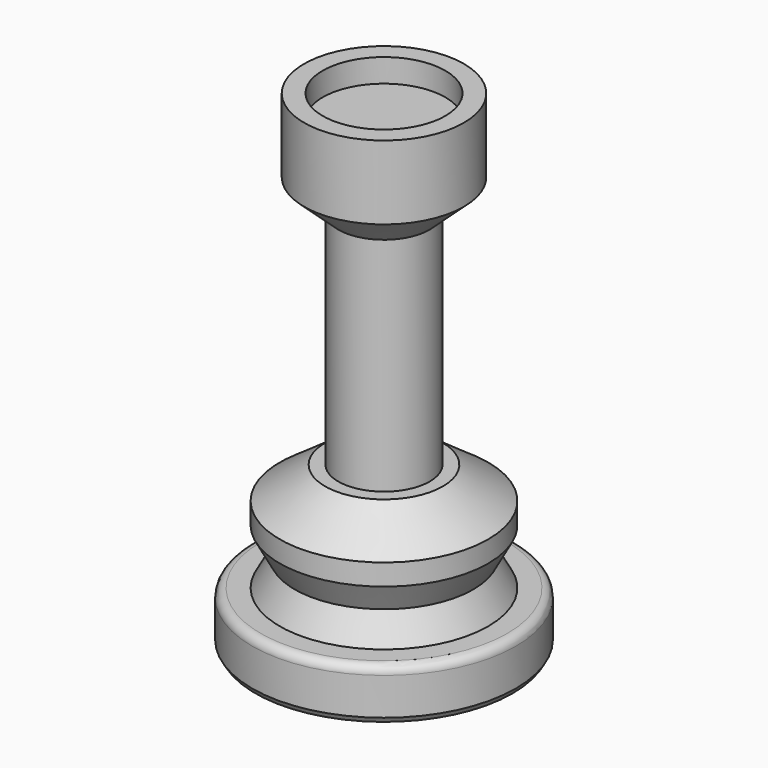
from build123d import *


with BuildPart() as f1:
    # F0 (on Front) → F1 (revolve)
    with BuildSketch(Plane.XZ):
        with BuildLine():
            Line((0, 0), (15.367, 0))
            Line((15.367, 0), (15.748, 0.635))
            Line((15.748, 0.635), (15.748, 5.08))
            ThreePointArc((15.748, 5.08), (15.45042, 5.79842), (14.732, 6.096))
            Line((14.732, 6.096), (12.446, 6.096))
            Line((12.446, 6.096), (10.668, 9.398))
            Line((10.668, 9.398), (12.446, 12.7))
            Line((12.446, 12.7), (12.446, 15.24))
            Line((12.446, 15.24), (7.029734, 19.05))
            Line((7.029734, 19.05), (5.461, 19.05))
            Line((5.461, 19.05), (5.461, 45.528467))
            Line((5.461, 45.528467), (9.538582, 49.266249))
            Line((9.538582, 49.266249), (9.538582, 58.08828))
            Line((9.538582, 58.08828), (7.322641, 58.08828))
            Line((7.322641, 58.08828), (7.322641, 55.292979))
            Line((7.322641, 55.292979), (0, 55.292979))
            Line((0, 55.292979), (0, 0))
        make_face()
    revolve(axis=Axis((0, 0, 27.646489), (0, 0, -1)))


solid = f1.part
